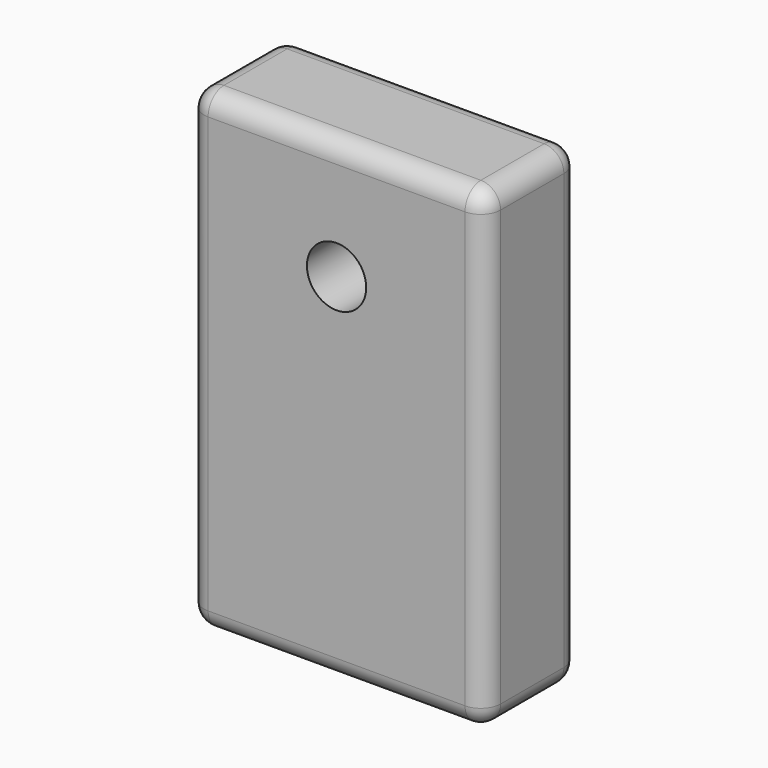
from build123d import *

# Parameters (mm, degrees)
F0_W     = 75
F0_H     = 120
F0_R     = 7.5
F1_DEPTH = 30
F2_R     = 5


with BuildPart() as f1:
    # F0 (on Front) → F1 (new body)
    with BuildSketch(Plane.XZ):
        with Locations((37.5, 60)):
            Rectangle(F0_W, F0_H)
        with Locations((37.5, 90)):
            Circle(F0_R, mode=Mode.SUBTRACT)
    extrude(amount=F1_DEPTH)

    # F2
    f2_edges = [f1.edges().sort_by_distance(p)[0] for p in [
        (37.5, -30, 120),
        (75, -15, 120),
        (37.5, 0, 120),
        (0, -15, 120),
        (0, 0, 60),
        (0, -30, 60),
        (75, 0, 60),
        (75, -30, 60),
        (37.5, -30, 0),
        (75, -15, 0),
        (37.5, 0, 0),
        (0, -15, 0),
    ]]
    fillet(f2_edges, radius=F2_R)


solid = f1.part
